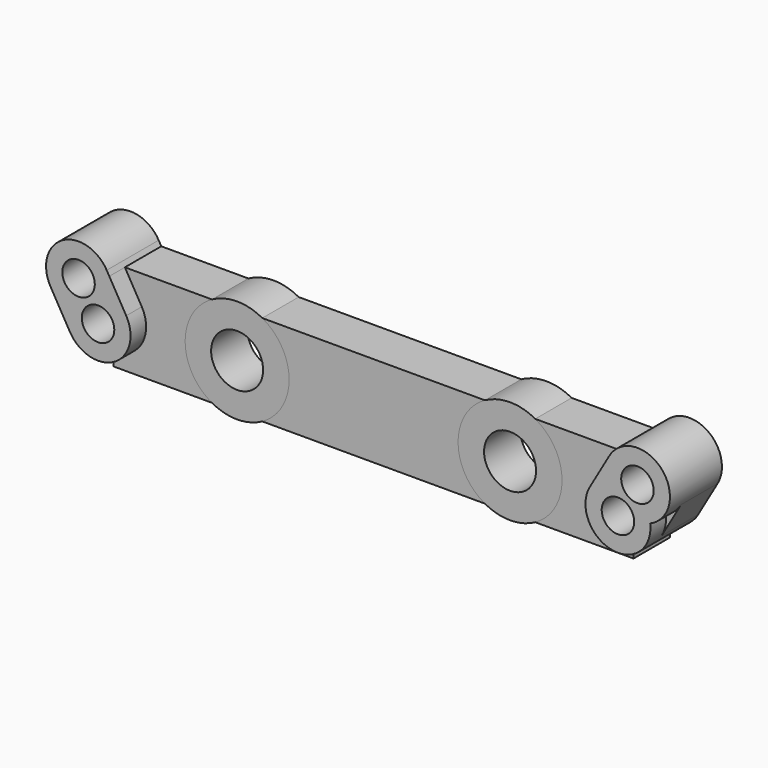
from build123d import *

# Parameters (mm, degrees)
F0_R     = 2
F1_DEPTH = 3.5
F2_DEPTH = 3.5
F3_DEPTH = 5


with BuildPart() as f1:
    # F0 (on Front) → F1 (new body)
    with BuildSketch(Plane.XZ):
        with BuildLine():
            Line((-20, 2.5), (-20, 3.5))
            Line((-20, 3.5), (-19.1683624897, 3.5))
            ThreePointArc((-19.1683624897, 3.5), (-19.2449236648, 3.6772567905), (-19.3349364905, 3.8480762114))
            ThreePointArc((-19.3349364905, 3.8480762114), (-22.75, 4.7631397208), (-23.6650635095, 1.3480762114))
            ThreePointArc((-23.6650635095, 1.3480762114), (-23.1586748831, 0.7275688919), (-22.4820508076, 0.2990381057))
            ThreePointArc((-22.4820508076, 0.2990381057), (-22.3282515686, 0.9106287023), (-22.026302045, 1.464274572))
            ThreePointArc((-22.026302045, 1.464274572), (-22.17254087, 3.651731173), (-20.25, 2.5980762114))
            ThreePointArc((-20.25, 2.5980762114), (-20.2512376014, 2.5424662136), (-20.254947955, 2.4869663328))
            ThreePointArc((-20.254947955, 2.4869663328), (-20.1276404483, 2.496739457), (-20, 2.5))
        make_face()
        with BuildLine():
            ThreePointArc((-22.4820508076, 0.2990381057), (-23.1586748831, 0.7275688919), (-23.6650635095, 1.3480762114))
            Line((-23.6650635095, 1.3480762114), (-22.1650635095, -1.25))
            ThreePointArc((-22.1650635095, -1.25), (-22.4492442982, -0.5012009257), (-22.4820508076, 0.2990381057))
        make_face()
        with BuildLine():
            ThreePointArc((-20, -1.25), (-20.9223305666, -0.8436861537), (-21.245052045, 0.1111098786))
            ThreePointArc((-21.245052045, 0.1111098786), (-21.8754981947, 0.1264368554), (-22.4820508076, 0.2990381057))
            ThreePointArc((-22.4820508076, 0.2990381057), (-22.4492442982, -0.5012009257), (-22.1650635095, -1.25))
            ThreePointArc((-22.1650635095, -1.25), (-21.25, -2.1650635095), (-20, -2.5))
            Line((-20, -2.5), (-20, -1.25))
        make_face()
        with BuildLine():
            Line((-20, 1.25), (-20, 2.5))
            ThreePointArc((-20, 2.5), (-20.1276404483, 2.496739457), (-20.254947955, 2.4869663328))
            ThreePointArc((-20.254947955, 2.4869663328), (-20.875, 1.5155444566), (-22.026302045, 1.464274572))
            ThreePointArc((-22.026302045, 1.464274572), (-22.3282515686, 0.9106287023), (-22.4820508076, 0.2990381057))
            ThreePointArc((-22.4820508076, 0.2990381057), (-21.8754981947, 0.1264368554), (-21.245052045, 0.1111098786))
            ThreePointArc((-21.245052045, 0.1111098786), (-20.8436861537, 0.9223305666), (-20, 1.25))
        make_face()
        with BuildLine():
            ThreePointArc((-19.0179491924, 2.2990381057), (-19.4987990743, 2.4492442982), (-20, 2.5))
            Line((-20, 2.5), (-20, 1.25))
            ThreePointArc((-20, 1.25), (-19.7305116414, 1.2206047782), (-19.473697955, 1.1338016393))
            ThreePointArc((-19.473697955, 1.1338016393), (-19.1717484314, 1.6874475091), (-19.0179491924, 2.2990381057))
        make_face()
        with BuildLine():
            Line((-19.1683624897, 3.5), (-20, 3.5))
            Line((-20, 3.5), (-20, 2.5))
            ThreePointArc((-20, 2.5), (-19.4987990743, 2.4492442982), (-19.0179491924, 2.2990381057))
            ThreePointArc((-19.0179491924, 2.2990381057), (-19.0044913325, 2.4482880592), (-19, 2.5980762114))
            ThreePointArc((-19, 2.5980762114), (-19.0424510406, 3.0568279003), (-19.1683624897, 3.5))
        make_face()
        with BuildLine():
            ThreePointArc((-17.8349364905, 1.25), (-18.3413251169, 1.8705073194), (-19.0179491924, 2.2990381057))
            ThreePointArc((-19.0179491924, 2.2990381057), (-19.1717484314, 1.6874475091), (-19.473697955, 1.1338016393))
            ThreePointArc((-19.473697955, 1.1338016393), (-18.9463450384, 0.67254087), (-18.75, 0))
            ThreePointArc((-18.75, 0), (-19.1161165235, -0.8838834765), (-20, -1.25))
            Line((-20, -1.25), (-20, -2.5))
            ThreePointArc((-20, -2.5), (-18.232233047, -1.767766953), (-17.5, 0))
            ThreePointArc((-17.5, 0), (-17.5851854343, 0.6470476128), (-17.8349364905, 1.25))
        make_face()
        with BuildLine():
            Line((-19.1339745962, 3.5), (-19.1683624897, 3.5))
            ThreePointArc((-19.1683624897, 3.5), (-19.0424510406, 3.0568279003), (-19, 2.5980762114))
            ThreePointArc((-19, 2.5980762114), (-19.0044913325, 2.4482880592), (-19.0179491924, 2.2990381057))
            ThreePointArc((-19.0179491924, 2.2990381057), (-18.3413251169, 1.8705073194), (-17.8349364905, 1.25))
            Line((-17.8349364905, 1.25), (-19.1339745962, 3.5))
        make_face()
        with BuildLine():
            ThreePointArc((-19.3349364905, 3.8480762114), (-19.2449236648, 3.6772567905), (-19.1683624897, 3.5))
            Line((-19.1683624897, 3.5), (-19.1339745962, 3.5))
            Line((-19.1339745962, 3.5), (-19.3349364905, 3.8480762114))
        make_face()
        with BuildLine():
            Line((-12.4364916731, 3.5), (-19.1339745962, 3.5))
            Line((-19.1339745962, 3.5), (-17.8349364905, 1.25))
            ThreePointArc((-17.8349364905, 1.25), (-17.5851854343, 0.6470476128), (-17.5, 0))
            ThreePointArc((-17.5, 0), (-18.232233047, -1.767766953), (-20, -2.5))
            Line((-20, -2.5), (-20, -3.5))
            Line((-20, -3.5), (-12.4364916731, -3.5))
            ThreePointArc((-12.4364916731, -3.5), (-14.5, 0), (-12.4364916731, 3.5))
        make_face()
        with BuildLine():
            Line((-8.5635083269, 3.5), (-12.4364916731, 3.5))
            ThreePointArc((-12.4364916731, 3.5), (-14.5, 0), (-12.4364916731, -3.5))
            Line((-12.4364916731, -3.5), (-8.5635083269, -3.5))
            ThreePointArc((-8.5635083269, -3.5), (-7.0542804313, -2.0315060063), (-6.5, 0))
            ThreePointArc((-6.5, 0), (-7.0542804313, 2.0315060063), (-8.5635083269, 3.5))
        make_face()
        with Locations((-10.5, 0)):
            Circle(F0_R, mode=Mode.SUBTRACT)
        with BuildLine():
            ThreePointArc((-8.5635083269, 3.5), (-10.5, 4), (-12.4364916731, 3.5))
            Line((-12.4364916731, 3.5), (-8.5635083269, 3.5))
        make_face()
        with BuildLine():
            Line((-8.5635083269, -3.5), (-12.4364916731, -3.5))
            ThreePointArc((-12.4364916731, -3.5), (-10.5, -4), (-8.5635083269, -3.5))
        make_face()
        with BuildLine():
            Line((8.5635083269, 3.5), (-8.5635083269, 3.5))
            ThreePointArc((-8.5635083269, 3.5), (-7.0542804313, 2.0315060063), (-6.5, 0))
            ThreePointArc((-6.5, 0), (-7.0542804313, -2.0315060063), (-8.5635083269, -3.5))
            Line((-8.5635083269, -3.5), (8.5635083269, -3.5))
            ThreePointArc((8.5635083269, -3.5), (6.5, 0), (8.5635083269, 3.5))
        make_face()
        with BuildLine():
            Line((19.1339745962, 3.5), (12.4364916731, 3.5))
            ThreePointArc((12.4364916731, 3.5), (13.9457195687, 2.0315060063), (14.5, 0))
            ThreePointArc((14.5, 0), (13.9457195687, -2.0315060063), (12.4364916731, -3.5))
            Line((12.4364916731, -3.5), (20, -3.5))
            Line((20, -3.5), (20, -2.5))
            ThreePointArc((20, -2.5), (17.8349364905, -1.25), (17.8349364905, 1.25))
            Line((17.8349364905, 1.25), (19.1339745962, 3.5))
        make_face()
        with BuildLine():
            Line((12.4364916731, 3.5), (8.5635083269, 3.5))
            ThreePointArc((8.5635083269, 3.5), (6.5, 0), (8.5635083269, -3.5))
            Line((8.5635083269, -3.5), (12.4364916731, -3.5))
            ThreePointArc((12.4364916731, -3.5), (13.9457195687, -2.0315060063), (14.5, 0))
            ThreePointArc((14.5, 0), (13.9457195687, 2.0315060063), (12.4364916731, 3.5))
        make_face()
        with Locations((10.5, 0)):
            Circle(F0_R, mode=Mode.SUBTRACT)
        with BuildLine():
            ThreePointArc((12.4364916731, 3.5), (10.5, 4), (8.5635083269, 3.5))
            Line((8.5635083269, 3.5), (12.4364916731, 3.5))
        make_face()
        with BuildLine():
            Line((12.4364916731, -3.5), (8.5635083269, -3.5))
            ThreePointArc((8.5635083269, -3.5), (10.5, -4), (12.4364916731, -3.5))
        make_face()
        with BuildLine():
            ThreePointArc((19.0179491924, 2.2990381057), (18.3413251169, 1.8705073194), (17.8349364905, 1.25))
            ThreePointArc((17.8349364905, 1.25), (17.8349364905, -1.25), (20, -2.5))
            Line((20, -2.5), (20, -1.25))
            ThreePointArc((20, -1.25), (18.7793952218, -0.2694883586), (19.473697955, 1.1338016393))
            ThreePointArc((19.473697955, 1.1338016393), (19.1717484314, 1.6874475091), (19.0179491924, 2.2990381057))
        make_face()
        with BuildLine():
            ThreePointArc((20.254947955, 2.4869663328), (20.1276404483, 2.496739457), (20, 2.5))
            Line((20, 2.5), (20, 1.25))
            ThreePointArc((20, 1.25), (20.8436861537, 0.9223305666), (21.245052045, 0.1111098786))
            ThreePointArc((21.245052045, 0.1111098786), (21.8754981947, 0.1264368554), (22.4820508076, 0.2990381057))
            ThreePointArc((22.4820508076, 0.2990381057), (22.3282515686, 0.9106287023), (22.026302045, 1.464274572))
            ThreePointArc((22.026302045, 1.464274572), (20.875, 1.5155444566), (20.254947955, 2.4869663328))
        make_face()
        with BuildLine():
            Line((20, -1.25), (20, -2.5))
            ThreePointArc((20, -2.5), (21.25, -2.1650635095), (22.1650635095, -1.25))
            ThreePointArc((22.1650635095, -1.25), (22.4148145657, -0.6470476128), (22.5, 0))
            ThreePointArc((22.5, 0), (22.4955086675, 0.1497881522), (22.4820508076, 0.2990381057))
            ThreePointArc((22.4820508076, 0.2990381057), (21.8754981947, 0.1264368554), (21.245052045, 0.1111098786))
            ThreePointArc((21.245052045, 0.1111098786), (21.2487623986, 0.0556099977), (21.25, 0))
            ThreePointArc((21.25, 0), (20.8838834765, -0.8838834765), (20, -1.25))
        make_face()
        with BuildLine():
            ThreePointArc((20, 2.5), (19.4987990743, 2.4492442982), (19.0179491924, 2.2990381057))
            ThreePointArc((19.0179491924, 2.2990381057), (19.1717484314, 1.6874475091), (19.473697955, 1.1338016393))
            ThreePointArc((19.473697955, 1.1338016393), (19.7305116414, 1.2206047782), (20, 1.25))
            Line((20, 1.25), (20, 2.5))
        make_face()
        with BuildLine():
            ThreePointArc((19.3349364905, 3.8480762114), (19.2449236648, 3.6772567905), (19.1683624897, 3.5))
            Line((19.1683624897, 3.5), (20, 3.5))
            Line((20, 3.5), (20, 2.5))
            ThreePointArc((20, 2.5), (20.1276404483, 2.496739457), (20.254947955, 2.4869663328))
            ThreePointArc((20.254947955, 2.4869663328), (21.4443900023, 3.84683861), (22.75, 2.5980762114))
            ThreePointArc((22.75, 2.5980762114), (22.5536549616, 1.9255353413), (22.026302045, 1.464274572))
            ThreePointArc((22.026302045, 1.464274572), (22.3282515686, 0.9106287023), (22.4820508076, 0.2990381057))
            ThreePointArc((22.4820508076, 0.2990381057), (23.1586748831, 0.7275688919), (23.6650635095, 1.3480762114))
            ThreePointArc((23.6650635095, 1.3480762114), (23.9148145657, 1.9510285986), (24, 2.5980762114))
            ThreePointArc((24, 2.5980762114), (22.1470476128, 5.0128907771), (19.3349364905, 3.8480762114))
        make_face()
        with BuildLine():
            Line((19.1683624897, 3.5), (19.1339745962, 3.5))
            Line((19.1339745962, 3.5), (17.8349364905, 1.25))
            ThreePointArc((17.8349364905, 1.25), (18.3413251169, 1.8705073194), (19.0179491924, 2.2990381057))
            ThreePointArc((19.0179491924, 2.2990381057), (19.0193798813, 2.9087590507), (19.1683624897, 3.5))
        make_face()
        with BuildLine():
            Line((19.3349364905, 3.8480762114), (19.1339745962, 3.5))
            Line((19.1339745962, 3.5), (19.1683624897, 3.5))
            ThreePointArc((19.1683624897, 3.5), (19.2449236648, 3.6772567905), (19.3349364905, 3.8480762114))
        make_face()
        with BuildLine():
            Line((20, 3.5), (19.1683624897, 3.5))
            ThreePointArc((19.1683624897, 3.5), (19.0193798813, 2.9087590507), (19.0179491924, 2.2990381057))
            ThreePointArc((19.0179491924, 2.2990381057), (19.4987990743, 2.4492442982), (20, 2.5))
            Line((20, 2.5), (20, 3.5))
        make_face()
        with BuildLine():
            Line((22.1650635095, -1.25), (23.6650635095, 1.3480762114))
            ThreePointArc((23.6650635095, 1.3480762114), (23.1586748831, 0.7275688919), (22.4820508076, 0.2990381057))
            ThreePointArc((22.4820508076, 0.2990381057), (22.4955086675, 0.1497881522), (22.5, 0))
            ThreePointArc((22.5, 0), (22.4148145657, -0.6470476128), (22.1650635095, -1.25))
        make_face()
    extrude(amount=F1_DEPTH)

    # F0 (on Front) → F3 (join)
    with BuildSketch(Plane.XZ):
        with BuildLine():
            Line((-20, 2.5), (-20, 3.5))
            Line((-20, 3.5), (-19.1683624897, 3.5))
            ThreePointArc((-19.1683624897, 3.5), (-19.2449236648, 3.6772567905), (-19.3349364905, 3.8480762114))
            ThreePointArc((-19.3349364905, 3.8480762114), (-22.75, 4.7631397208), (-23.6650635095, 1.3480762114))
            ThreePointArc((-23.6650635095, 1.3480762114), (-23.1586748831, 0.7275688919), (-22.4820508076, 0.2990381057))
            ThreePointArc((-22.4820508076, 0.2990381057), (-22.3282515686, 0.9106287023), (-22.026302045, 1.464274572))
            ThreePointArc((-22.026302045, 1.464274572), (-22.17254087, 3.651731173), (-20.25, 2.5980762114))
            ThreePointArc((-20.25, 2.5980762114), (-20.2512376014, 2.5424662136), (-20.254947955, 2.4869663328))
            ThreePointArc((-20.254947955, 2.4869663328), (-20.1276404483, 2.496739457), (-20, 2.5))
        make_face()
        with BuildLine():
            Line((-20, 1.25), (-20, 2.5))
            ThreePointArc((-20, 2.5), (-20.1276404483, 2.496739457), (-20.254947955, 2.4869663328))
            ThreePointArc((-20.254947955, 2.4869663328), (-20.875, 1.5155444566), (-22.026302045, 1.464274572))
            ThreePointArc((-22.026302045, 1.464274572), (-22.3282515686, 0.9106287023), (-22.4820508076, 0.2990381057))
            ThreePointArc((-22.4820508076, 0.2990381057), (-21.8754981947, 0.1264368554), (-21.245052045, 0.1111098786))
            ThreePointArc((-21.245052045, 0.1111098786), (-20.8436861537, 0.9223305666), (-20, 1.25))
        make_face()
        with BuildLine():
            ThreePointArc((-20, -1.25), (-20.9223305666, -0.8436861537), (-21.245052045, 0.1111098786))
            ThreePointArc((-21.245052045, 0.1111098786), (-21.8754981947, 0.1264368554), (-22.4820508076, 0.2990381057))
            ThreePointArc((-22.4820508076, 0.2990381057), (-22.4492442982, -0.5012009257), (-22.1650635095, -1.25))
            ThreePointArc((-22.1650635095, -1.25), (-21.25, -2.1650635095), (-20, -2.5))
            Line((-20, -2.5), (-20, -1.25))
        make_face()
        with BuildLine():
            ThreePointArc((-17.8349364905, 1.25), (-18.3413251169, 1.8705073194), (-19.0179491924, 2.2990381057))
            ThreePointArc((-19.0179491924, 2.2990381057), (-19.1717484314, 1.6874475091), (-19.473697955, 1.1338016393))
            ThreePointArc((-19.473697955, 1.1338016393), (-18.9463450384, 0.67254087), (-18.75, 0))
            ThreePointArc((-18.75, 0), (-19.1161165235, -0.8838834765), (-20, -1.25))
            Line((-20, -1.25), (-20, -2.5))
            ThreePointArc((-20, -2.5), (-18.232233047, -1.767766953), (-17.5, 0))
            ThreePointArc((-17.5, 0), (-17.5851854343, 0.6470476128), (-17.8349364905, 1.25))
        make_face()
        with BuildLine():
            ThreePointArc((-19.0179491924, 2.2990381057), (-19.4987990743, 2.4492442982), (-20, 2.5))
            Line((-20, 2.5), (-20, 1.25))
            ThreePointArc((-20, 1.25), (-19.7305116414, 1.2206047782), (-19.473697955, 1.1338016393))
            ThreePointArc((-19.473697955, 1.1338016393), (-19.1717484314, 1.6874475091), (-19.0179491924, 2.2990381057))
        make_face()
        with BuildLine():
            Line((-19.1339745962, 3.5), (-19.1683624897, 3.5))
            ThreePointArc((-19.1683624897, 3.5), (-19.0424510406, 3.0568279003), (-19, 2.5980762114))
            ThreePointArc((-19, 2.5980762114), (-19.0044913325, 2.4482880592), (-19.0179491924, 2.2990381057))
            ThreePointArc((-19.0179491924, 2.2990381057), (-18.3413251169, 1.8705073194), (-17.8349364905, 1.25))
            Line((-17.8349364905, 1.25), (-19.1339745962, 3.5))
        make_face()
        with BuildLine():
            Line((-19.1683624897, 3.5), (-20, 3.5))
            Line((-20, 3.5), (-20, 2.5))
            ThreePointArc((-20, 2.5), (-19.4987990743, 2.4492442982), (-19.0179491924, 2.2990381057))
            ThreePointArc((-19.0179491924, 2.2990381057), (-19.0044913325, 2.4482880592), (-19, 2.5980762114))
            ThreePointArc((-19, 2.5980762114), (-19.0424510406, 3.0568279003), (-19.1683624897, 3.5))
        make_face()
        with BuildLine():
            ThreePointArc((-19.3349364905, 3.8480762114), (-19.2449236648, 3.6772567905), (-19.1683624897, 3.5))
            Line((-19.1683624897, 3.5), (-19.1339745962, 3.5))
            Line((-19.1339745962, 3.5), (-19.3349364905, 3.8480762114))
        make_face()
        with BuildLine():
            ThreePointArc((-22.4820508076, 0.2990381057), (-23.1586748831, 0.7275688919), (-23.6650635095, 1.3480762114))
            Line((-23.6650635095, 1.3480762114), (-22.1650635095, -1.25))
            ThreePointArc((-22.1650635095, -1.25), (-22.4492442982, -0.5012009257), (-22.4820508076, 0.2990381057))
        make_face()
        with BuildLine():
            ThreePointArc((19.0179491924, 2.2990381057), (18.3413251169, 1.8705073194), (17.8349364905, 1.25))
            ThreePointArc((17.8349364905, 1.25), (17.8349364905, -1.25), (20, -2.5))
            Line((20, -2.5), (20, -1.25))
            ThreePointArc((20, -1.25), (18.7793952218, -0.2694883586), (19.473697955, 1.1338016393))
            ThreePointArc((19.473697955, 1.1338016393), (19.1717484314, 1.6874475091), (19.0179491924, 2.2990381057))
        make_face()
        with BuildLine():
            Line((20, -1.25), (20, -2.5))
            ThreePointArc((20, -2.5), (21.25, -2.1650635095), (22.1650635095, -1.25))
            ThreePointArc((22.1650635095, -1.25), (22.4148145657, -0.6470476128), (22.5, 0))
            ThreePointArc((22.5, 0), (22.4955086675, 0.1497881522), (22.4820508076, 0.2990381057))
            ThreePointArc((22.4820508076, 0.2990381057), (21.8754981947, 0.1264368554), (21.245052045, 0.1111098786))
            ThreePointArc((21.245052045, 0.1111098786), (21.2487623986, 0.0556099977), (21.25, 0))
            ThreePointArc((21.25, 0), (20.8838834765, -0.8838834765), (20, -1.25))
        make_face()
        with BuildLine():
            ThreePointArc((20.254947955, 2.4869663328), (20.1276404483, 2.496739457), (20, 2.5))
            Line((20, 2.5), (20, 1.25))
            ThreePointArc((20, 1.25), (20.8436861537, 0.9223305666), (21.245052045, 0.1111098786))
            ThreePointArc((21.245052045, 0.1111098786), (21.8754981947, 0.1264368554), (22.4820508076, 0.2990381057))
            ThreePointArc((22.4820508076, 0.2990381057), (22.3282515686, 0.9106287023), (22.026302045, 1.464274572))
            ThreePointArc((22.026302045, 1.464274572), (20.875, 1.5155444566), (20.254947955, 2.4869663328))
        make_face()
        with BuildLine():
            ThreePointArc((19.3349364905, 3.8480762114), (19.2449236648, 3.6772567905), (19.1683624897, 3.5))
            Line((19.1683624897, 3.5), (20, 3.5))
            Line((20, 3.5), (20, 2.5))
            ThreePointArc((20, 2.5), (20.1276404483, 2.496739457), (20.254947955, 2.4869663328))
            ThreePointArc((20.254947955, 2.4869663328), (21.4443900023, 3.84683861), (22.75, 2.5980762114))
            ThreePointArc((22.75, 2.5980762114), (22.5536549616, 1.9255353413), (22.026302045, 1.464274572))
            ThreePointArc((22.026302045, 1.464274572), (22.3282515686, 0.9106287023), (22.4820508076, 0.2990381057))
            ThreePointArc((22.4820508076, 0.2990381057), (23.1586748831, 0.7275688919), (23.6650635095, 1.3480762114))
            ThreePointArc((23.6650635095, 1.3480762114), (23.9148145657, 1.9510285986), (24, 2.5980762114))
            ThreePointArc((24, 2.5980762114), (22.1470476128, 5.0128907771), (19.3349364905, 3.8480762114))
        make_face()
        with BuildLine():
            Line((19.1683624897, 3.5), (19.1339745962, 3.5))
            Line((19.1339745962, 3.5), (17.8349364905, 1.25))
            ThreePointArc((17.8349364905, 1.25), (18.3413251169, 1.8705073194), (19.0179491924, 2.2990381057))
            ThreePointArc((19.0179491924, 2.2990381057), (19.0193798813, 2.9087590507), (19.1683624897, 3.5))
        make_face()
        with BuildLine():
            Line((20, 3.5), (19.1683624897, 3.5))
            ThreePointArc((19.1683624897, 3.5), (19.0193798813, 2.9087590507), (19.0179491924, 2.2990381057))
            ThreePointArc((19.0179491924, 2.2990381057), (19.4987990743, 2.4492442982), (20, 2.5))
            Line((20, 2.5), (20, 3.5))
        make_face()
        with BuildLine():
            Line((19.3349364905, 3.8480762114), (19.1339745962, 3.5))
            Line((19.1339745962, 3.5), (19.1683624897, 3.5))
            ThreePointArc((19.1683624897, 3.5), (19.2449236648, 3.6772567905), (19.3349364905, 3.8480762114))
        make_face()
        with BuildLine():
            ThreePointArc((20, 2.5), (19.4987990743, 2.4492442982), (19.0179491924, 2.2990381057))
            ThreePointArc((19.0179491924, 2.2990381057), (19.1717484314, 1.6874475091), (19.473697955, 1.1338016393))
            ThreePointArc((19.473697955, 1.1338016393), (19.7305116414, 1.2206047782), (20, 1.25))
            Line((20, 1.25), (20, 2.5))
        make_face()
    extrude(amount=F3_DEPTH)


with BuildPart() as f2:
    # F0 (on Front) → F2 (new body)
    with BuildSketch(Plane.XZ):
        with BuildLine():
            Line((-8.5635083269, 3.5), (-12.4364916731, 3.5))
            ThreePointArc((-12.4364916731, 3.5), (-14.5, 0), (-12.4364916731, -3.5))
            Line((-12.4364916731, -3.5), (-8.5635083269, -3.5))
            ThreePointArc((-8.5635083269, -3.5), (-7.0542804313, -2.0315060063), (-6.5, 0))
            ThreePointArc((-6.5, 0), (-7.0542804313, 2.0315060063), (-8.5635083269, 3.5))
        make_face()
        with Locations((-10.5, 0)):
            Circle(F0_R, mode=Mode.SUBTRACT)
        with BuildLine():
            ThreePointArc((-8.5635083269, 3.5), (-10.5, 4), (-12.4364916731, 3.5))
            Line((-12.4364916731, 3.5), (-8.5635083269, 3.5))
        make_face()
        with BuildLine():
            Line((-8.5635083269, -3.5), (-12.4364916731, -3.5))
            ThreePointArc((-12.4364916731, -3.5), (-10.5, -4), (-8.5635083269, -3.5))
        make_face()
    extrude(amount=F2_DEPTH)


with BuildPart() as f2b:
    # F0 (on Front) → F2, piece 2 (new body)
    with BuildSketch(Plane.XZ):
        with BuildLine():
            ThreePointArc((12.4364916731, 3.5), (10.5, 4), (8.5635083269, 3.5))
            Line((8.5635083269, 3.5), (12.4364916731, 3.5))
        make_face()
        with BuildLine():
            Line((12.4364916731, 3.5), (8.5635083269, 3.5))
            ThreePointArc((8.5635083269, 3.5), (6.5, 0), (8.5635083269, -3.5))
            Line((8.5635083269, -3.5), (12.4364916731, -3.5))
            ThreePointArc((12.4364916731, -3.5), (13.9457195687, -2.0315060063), (14.5, 0))
            ThreePointArc((14.5, 0), (13.9457195687, 2.0315060063), (12.4364916731, 3.5))
        make_face()
        with Locations((10.5, 0)):
            Circle(F0_R, mode=Mode.SUBTRACT)
        with BuildLine():
            Line((12.4364916731, -3.5), (8.5635083269, -3.5))
            ThreePointArc((8.5635083269, -3.5), (10.5, -4), (12.4364916731, -3.5))
        make_face()
    extrude(amount=F2_DEPTH)


solid = Compound([f1.part, f2.part, f2b.part])
